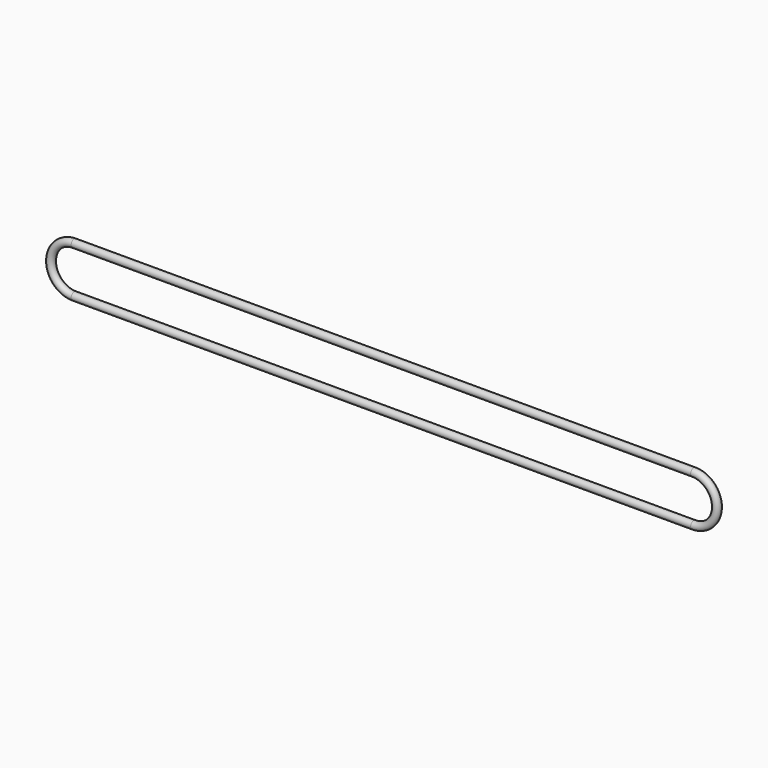
from build123d import *

# Parameters (mm, degrees)
F1_R = 2.5


with BuildPart() as f2:
    # F2: sweep along a path in F0
    with BuildLine(Plane.XZ) as f2_path:
        Line((400, 15), (0, 15))
        ThreePointArc((0, 15), (-15, 0), (0, -15))
        Line((0, -15), (400, -15))
        ThreePointArc((400, -15), (415, 0), (400, 15))
    # F1 (on Right) → F2 (sweep)
    with BuildSketch(Plane.YZ):
        with Locations((0, 15)):
            Circle(F1_R)
    sweep(path=f2_path.line)


solid = f2.part
